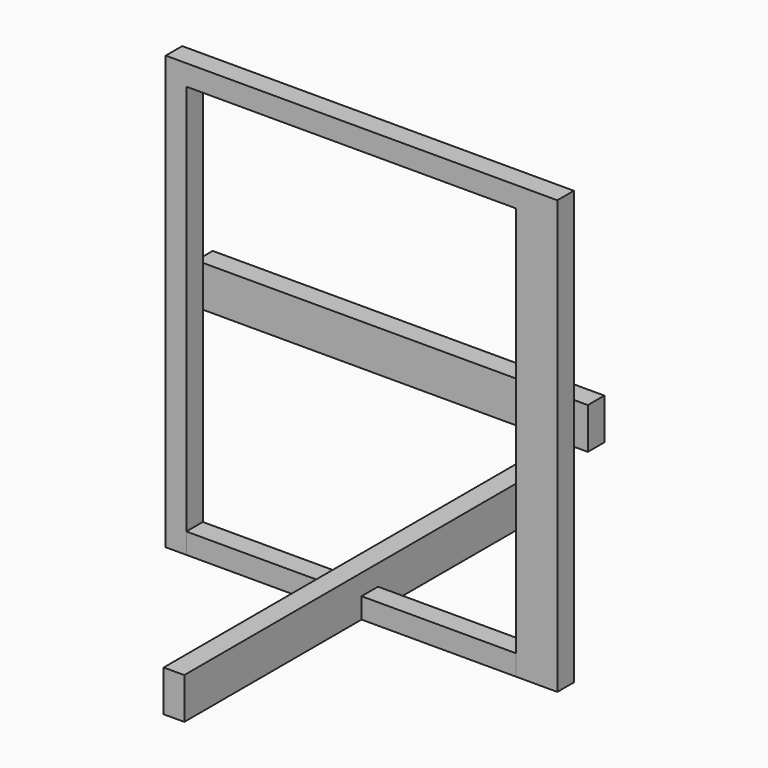
from build123d import *

# Parameters (mm, degrees)
F1_DEPTH = 40
F0_W     = 150
F0_H     = 20
F2_DEPTH = 20
F0_W_2   = 20
F3_DEPTH = 400
F0_W_3   = 40
F4_W     = 360
F4_H     = 20
F4_W_2   = 20
F5_DEPTH = 20
F7_W     = 380
F7_H     = 40
F8_DEPTH = 20


with BuildPart() as f1:
    # F0 (on Top) → F1 (new body)
    with BuildSketch(Plane.XY):
        Polygon((-10, -225), (10, -225), (10, -10), (10, 10), (10, 225), (-10, 225), (-10, 10), (-10, -10), align=None)
    extrude(amount=F1_DEPTH)

    # F0 (on Top) → F2 (join)
    with BuildSketch(Plane.XY):
        with Locations((-85, 0)):
            Rectangle(F0_W, F0_H)
        with Locations((85, 0)):
            Rectangle(F0_W, F0_H)
    extrude(amount=F2_DEPTH)


with BuildPart() as f3:
    # F0 (on Top) → F3 (new body)
    with BuildSketch(Plane.XY):
        with Locations((-170, 0)):
            Rectangle(F0_W_2, F0_H)
    extrude(amount=F3_DEPTH)



with BuildPart() as f3b:
    # F0 (on Top) → F3, piece 2 (new body)
    with BuildSketch(Plane.XY):
        with Locations((180, 0)):
            Rectangle(F0_W_3, F0_H)
        with Locations((180, 0)):
            Rectangle(F0_W_3, F0_H)
    extrude(amount=F3_DEPTH)


with BuildPart() as f3_1:
    add(f3.part)

    add(f3b.part)  # F5 merges F3b
    # F4 (on face) → F5 (join)
    with BuildSketch(Plane.XY.offset(400)):
        with Locations((20, 0)):
            Rectangle(F4_W, F4_H)
        with Locations((-170, 0)):
            Rectangle(F4_W_2, F4_H)
    extrude(amount=F5_DEPTH)


with BuildPart() as f8:
    # F7 (on offset) → F8 (new body)
    with BuildSketch(Plane(origin=(0, 27, 0), x_dir=(-1, 0, 0), z_dir=(0, 1, 0))):
        with Locations((-10, 210)):
            Rectangle(F7_W, F7_H)
    extrude(amount=F8_DEPTH)


solid = Compound([f1.part, f3_1.part, f8.part])
